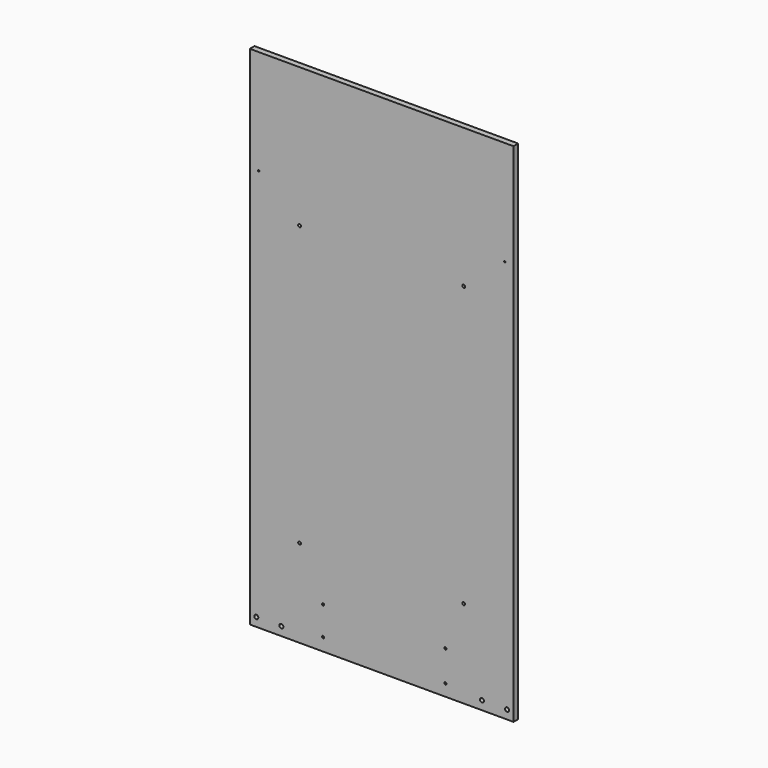
from build123d import *

# Parameters (mm, degrees)
F0_W     = 571.5
F0_H     = 1098.0928
F1_DEPTH = 12.6492
F2_R     = 4.3688
F2_R_2   = 3.175
F2_R_3   = 1.6637
F3_DEPTH = 12.6492


with BuildPart() as f1:
    # F0 (on Front) → F1 (new body)
    with BuildSketch(Plane.XZ):
        with Locations((285.75, 549.0464)):
            Rectangle(F0_W, F0_H)
    extrude(amount=F1_DEPTH)

    # F2 (on face) → F3 (cut)
    with BuildSketch(Plane.XZ.offset(12.6492)):
        with BuildLine():
            ThreePointArc((14.15288, 14.6812), (17.242088, 15.960792), (18.52168, 19.05))
            ThreePointArc((18.52168, 19.05), (11.063672, 22.139208), (14.15288, 14.6812))
        make_face()
        with BuildLine():
            ThreePointArc((72.77608, 19.05), (65.318072, 22.139208), (68.40728, 14.6812))
            ThreePointArc((68.40728, 14.6812), (71.496488, 15.960792), (72.77608, 19.05))
        make_face()
        with BuildLine():
            ThreePointArc((111.125, 190.5), (105.704936, 192.745064), (107.95, 187.325))
            ThreePointArc((107.95, 187.325), (110.195064, 188.254936), (111.125, 190.5))
        make_face()
        with BuildLine():
            ThreePointArc((161.163, 89.8525), (157.043751, 91.558749), (158.75, 87.4395))
            ThreePointArc((158.75, 87.4395), (160.456249, 88.146251), (161.163, 89.8525))
        make_face()
        with BuildLine():
            ThreePointArc((158.75, 30.0355), (156.337, 27.6225), (158.75, 25.2095))
            Line((158.75, 25.2095), (158.75, 27.6225))
            Line((158.75, 27.6225), (158.75, 30.0355))
        make_face()
        with BuildLine():
            Line((158.75, 27.6225), (158.75, 25.2095))
            ThreePointArc((158.75, 25.2095), (160.456249, 25.916251), (161.163, 27.6225))
            ThreePointArc((161.163, 27.6225), (160.456249, 29.328749), (158.75, 30.0355))
            Line((158.75, 30.0355), (158.75, 27.6225))
        make_face()
        with BuildLine():
            ThreePointArc((421.45712, 92.075), (422.163871, 90.368751), (423.87012, 89.662))
            Line((423.87012, 89.662), (423.87012, 92.075))
            Line((423.87012, 92.075), (421.45712, 92.075))
        make_face()
        with BuildLine():
            Line((423.87012, 92.075), (423.87012, 89.662))
            ThreePointArc((423.87012, 89.662), (425.576369, 90.368751), (426.28312, 92.075))
            ThreePointArc((426.28312, 92.075), (423.87012, 94.488), (421.45712, 92.075))
            Line((421.45712, 92.075), (423.87012, 92.075))
        make_face()
        with BuildLine():
            ThreePointArc((421.45712, 25.4), (422.163871, 23.693751), (423.87012, 22.987))
            Line((423.87012, 22.987), (423.87012, 25.4))
            Line((423.87012, 25.4), (421.45712, 25.4))
        make_face()
        with BuildLine():
            Line((423.87012, 25.4), (423.87012, 22.987))
            ThreePointArc((423.87012, 22.987), (425.576369, 23.693751), (426.28312, 25.4))
            ThreePointArc((426.28312, 25.4), (425.576369, 27.106249), (423.87012, 27.813))
            Line((423.87012, 27.813), (423.87012, 25.4))
        make_face()
        with BuildLine():
            ThreePointArc((111.125, 795.712411), (110.195064, 797.957475), (107.95, 798.887411))
            ThreePointArc((107.95, 798.887411), (105.704936, 793.467347), (111.125, 795.712411))
        make_face()
        with BuildLine():
            ThreePointArc((20.7137, 871.474), (20.226414, 872.650414), (19.05, 873.1377))
            ThreePointArc((19.05, 873.1377), (17.873586, 870.297586), (20.7137, 871.474))
        make_face()
        with BuildLine():
            ThreePointArc((423.87012, 27.813), (422.163871, 27.106249), (421.45712, 25.4))
            Line((421.45712, 25.4), (423.87012, 25.4))
            Line((423.87012, 25.4), (423.87012, 27.813))
        make_face()
        with Locations((503.09272, 19.05)):
            Circle(F2_R)
        with Locations((557.34712, 19.05)):
            Circle(F2_R)
        with Locations((463.55, 190.5)):
            Circle(F2_R_2)
        with Locations((463.55, 795.712411)):
            Circle(F2_R_2)
        with Locations((552.45, 871.474)):
            Circle(F2_R_3)
    extrude(amount=-F3_DEPTH, mode=Mode.SUBTRACT)


solid = f1.part
